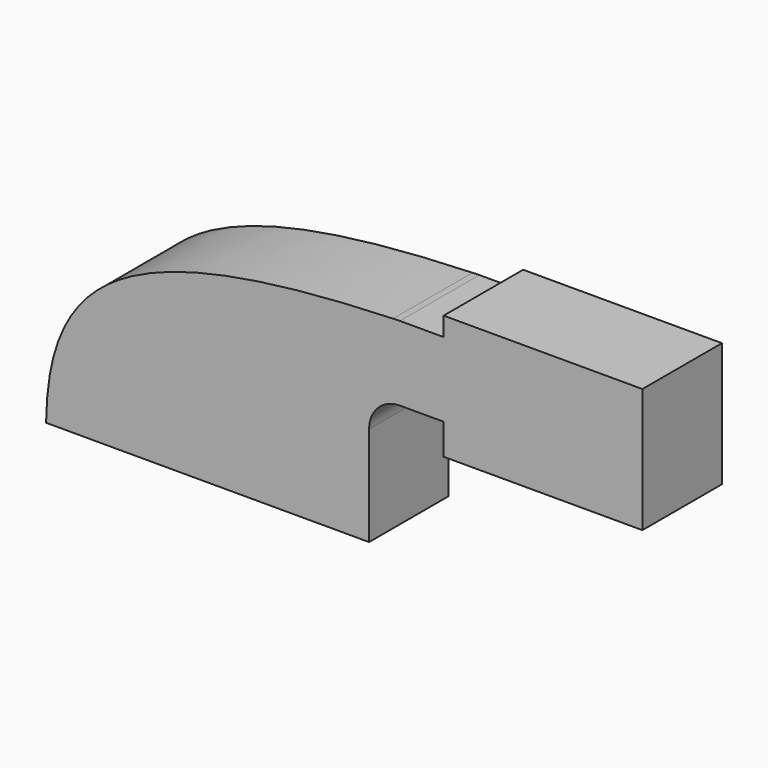
from build123d import *

# Parameters (mm, degrees)
F0_W     = 25.4
F0_H     = 7.874
F0_H_2   = 4.826
F0_H_3   = 19.05
F1_DEPTH = 25.4


with BuildPart() as f1:
    # F0 (on Front) → F1 (new body)
    with BuildSketch(Plane.XZ):
        with BuildLine():
            ThreePointArc((49.149, 61.849), (48.2646519361, 61.8344723936), (47.3812582222, 61.790905252))
            add(Edge.make_bspline(
                [(47.3812582222, 61.790905252), (47.9669561988, 61.8111847616), (48.5561975061, 61.8305479146), (49.149, 61.849)],
                knots=[103.5782893444, 103.5782893444, 103.5782893444, 103.5782893444, 104.4715308206, 104.4715308206, 104.4715308206, 104.4715308206], degree=3))
        make_face()
        with BuildLine():
            Line((-41.275, 9.525), (22.225, 9.525))
            Line((22.225, 9.525), (22.225, 34.925))
            ThreePointArc((22.225, 34.925), (29.4958010794, 53.3275418947), (47.3812582222, 61.790905252))
            add(Edge.make_bspline(
                [(-41.275, 9.525), (-40.8068549943, 44.7662530835), (-20.5349728413, 59.4393385436), (47.3812582222, 61.790905252)],
                knots=[0, 0, 0, 0, 103.5782893444, 103.5782893444, 103.5782893444, 103.5782893444], degree=3))
        make_face()
        with Locations((73.025, 38.862)):
            Rectangle(F0_W, F0_H)
        with Locations((73.025, 64.262)):
            Rectangle(F0_W, F0_H_2)
        Polygon((85.725, 61.849), (85.725, 42.799), (85.725, 34.925), (111.125, 34.925), (111.125, 66.675), (85.725, 66.675), align=None)
        with BuildLine():
            Line((22.225, 9.525), (41.275, 9.525))
            Line((41.275, 9.525), (41.275, 34.925))
            ThreePointArc((41.275, 34.925), (43.5812412049, 40.4927587951), (49.149, 42.799))
            Line((49.149, 42.799), (60.325, 42.799))
            Line((60.325, 42.799), (60.325, 61.849))
            Line((60.325, 61.849), (49.149, 61.849))
            add(Edge.make_bspline(
                [(47.3812582222, 61.790905252), (47.9669561988, 61.8111847616), (48.5561975061, 61.8305479146), (49.149, 61.849)],
                knots=[103.5782893444, 103.5782893444, 103.5782893444, 103.5782893444, 104.4715308206, 104.4715308206, 104.4715308206, 104.4715308206], degree=3))
            ThreePointArc((47.3812582222, 61.790905252), (29.4958010794, 53.3275418947), (22.225, 34.925))
            Line((22.225, 34.925), (22.225, 9.525))
        make_face()
        with Locations((73.025, 52.324)):
            Rectangle(F0_W, F0_H_3)
    extrude(amount=F1_DEPTH)


solid = f1.part
